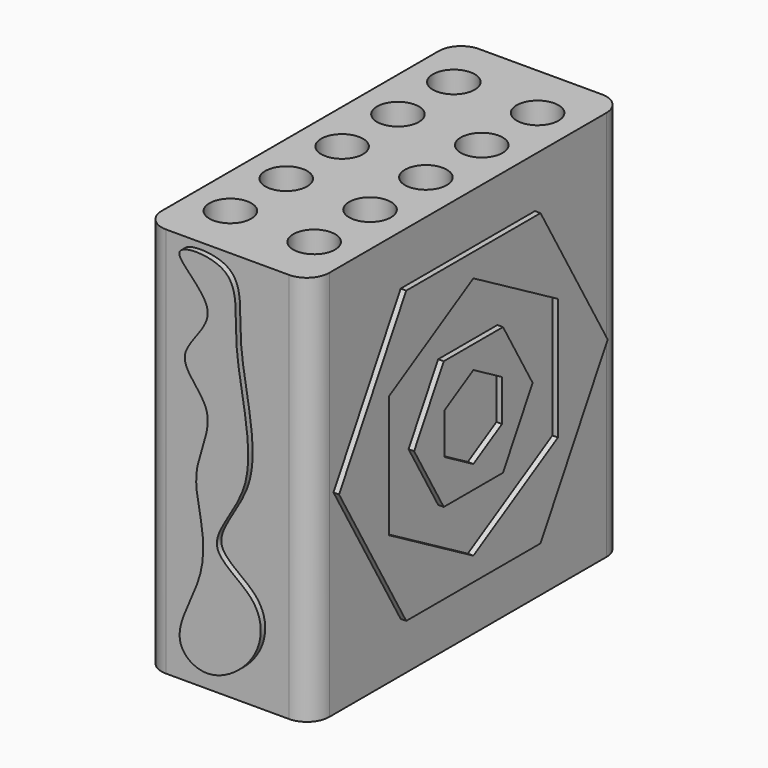
from build123d import *

# Parameters (mm, degrees)
F0_W      = 88.9
F0_H      = 88.9
F1_DEPTH  = 19.05
F2_R      = 4.7625
F3_DEPTH  = 82.55
F4_R      = 5.08
F6_DEPTH  = 1.27
F7_R      = 37.8350149357
F7_R_2    = 34.0428240735
F7_R_3    = 29.2742972445
F7_R_4    = 24.6223872017
F7_R_5    = 20.4338722206
F7_R_6    = 16.3206542749
F7_R_7    = 11.4710246767
F7_R_8    = 4.2947443434
F8_DEPTH  = 1.27
F10_DEPTH = 1.27
F11_W     = 27.94
F11_H     = 72.8966072202
F11_W_2   = 20.8626687527
F11_H_2   = 56.206472218
F11_W_3   = 12.5176021829
F11_H_3   = 41.7253263295
F11_W_4   = 6.1360821128
F11_H_4   = 30.6803882122
F12_DEPTH = 1.27
F14_DEPTH = 1.27


with BuildPart() as f1:
    # F0 (on Right) → F1 (new body, symmetric)
    with BuildSketch(Plane.YZ):
        Rectangle(F0_W, F0_H)
    extrude(amount=F1_DEPTH, both=True)

    # F2 (on face) → F3 (cut)
    with BuildSketch(Plane.XY.offset(44.45)):
        with Locations((-9.525, -31.75)):
            Circle(F2_R)
        with Locations((-9.525, 0)):
            Circle(F2_R)
        with Locations((-9.525, -15.875)):
            Circle(F2_R)
        with Locations((-9.525, 15.875)):
            Circle(F2_R)
        with Locations((-9.525, 31.75)):
            Circle(F2_R)
        with Locations((9.525, 0)):
            Circle(F2_R)
        with Locations((9.525, -31.75)):
            Circle(F2_R)
        with Locations((9.525, -15.875)):
            Circle(F2_R)
        with Locations((9.525, 15.875)):
            Circle(F2_R)
        with Locations((9.525, 31.75)):
            Circle(F2_R)
    extrude(amount=-F3_DEPTH, mode=Mode.SUBTRACT)

    # F4
    f4_edges = [f1.edges().sort_by_distance(p)[0] for p in [
        (19.05, -44.45, 0),
        (19.05, 44.45, 0),
        (-19.05, 44.45, 0),
        (-19.05, -44.45, 0),
    ]]
    fillet(f4_edges, radius=F4_R)

    # F5 (on face) → F6 (join)
    with BuildSketch(Plane.YZ.offset(19.05)):
        Polygon((-19.0844916684, -33.0553092062), (19.0844916684, -33.0553092062), (38.1689833367, 0), (19.0844916684, 33.0553092062), (-19.0844916684, 33.0553092062), (-38.1689833367, 0), align=None)
        Polygon((0, -27.7594144883), (-24.0403581411, -13.8797072442), (-24.0403581411, 13.8797072442), (0, 27.7594144883), (24.0403581411, 13.8797072442), (24.0403581411, -13.8797072442), align=None, mode=Mode.SUBTRACT)
        Polygon((-8.4196167213, -14.5832039416), (8.4196167213, -14.5832039416), (16.8392334426, 0), (8.4196167213, 14.5832039416), (-8.4196167213, 14.5832039416), (-16.8392334426, 0), align=None)
        Polygon((0, -9.4086802429), (-8.1481561065, -4.7043401215), (-8.1481561065, 4.7043401215), (0, 9.4086802429), (8.1481561065, 4.7043401215), (8.1481561065, -4.7043401215), align=None, mode=Mode.SUBTRACT)
    extrude(amount=F6_DEPTH)

    # F7 (on face) → F8 (join)
    with BuildSketch(Plane(origin=(-19.05, 0, 0), x_dir=(0, -1, 0), z_dir=(-1, 0, 0))):
        Circle(F7_R)
        with Locations((0, -0.6230861181)):
            Circle(F7_R_2, mode=Mode.SUBTRACT)
        Circle(F7_R_3)
        Circle(F7_R_4, mode=Mode.SUBTRACT)
        Circle(F7_R_5)
        Circle(F7_R_6, mode=Mode.SUBTRACT)
        Circle(F7_R_7)
        Circle(F7_R_8, mode=Mode.SUBTRACT)
    extrude(amount=F8_DEPTH)

    # F9 (on face) → F10 (join)
    with BuildSketch(Plane(origin=(-19.05, 0, 0), x_dir=(0, -1, 0), z_dir=(-1, 0, 0))):
        Polygon((-23.4398227185, 39.1481854022), (-36.2422010507, 41.6307673476), (-31.9909909163, 29.3022915103), align=None)
        Polygon((31.9909909163, 29.3022915103), (36.2422010507, 41.6307673476), (23.4398227185, 39.1481854022), align=None)
        Polygon((31.9909909163, -29.3022915103), (23.4398227185, -39.1481854022), (36.2422010507, -41.6307673476), align=None)
        Polygon((-31.9909909163, -29.3022915103), (-36.2422010507, -41.6307673476), (-23.4398227185, -39.1481854022), align=None)
    extrude(amount=F10_DEPTH)

    # F11 (on face) → F12 (join)
    with BuildSketch(Plane(origin=(0, 44.45, 0), x_dir=(-1, 0, 0), z_dir=(0, 1, 0))):
        Rectangle(F11_W, F11_H)
        Rectangle(F11_W_2, F11_H_2, mode=Mode.SUBTRACT)
        Rectangle(F11_W_3, F11_H_3)
        Rectangle(F11_W_4, F11_H_4, mode=Mode.SUBTRACT)
    extrude(amount=F12_DEPTH)

    # F13 (on face) → F14 (join)
    with BuildSketch(Plane.XZ.offset(44.45)):
        with BuildLine():
            add(Edge.make_bspline(
                [(-9.9404472858, 41.7253300548), (-10.4393687317, 39.8544595144), (2.3346966823, 32.0702597616), (-13.4633031993, 21.1841853724), (-0.3491542327, 12.6171329779), (-7.4059680461, -0.1327843033), (-4.8737832549, -9.7281138777), (-3.5972809771, -21.8644273007), (-13.0755227687, -35.9396479129), (-3.1443557011, -43.0219255628), (9.0691160086, -34.1679552684), (9.0984922379, -21.5225097323), (-6.5670666967, -15.0823173953), (9.9744444963, 0.1785511815), (1.0667515938, 26.0297424967), (4.6818241025, 43.5460924), (-9.4745389427, 43.4724070763), (-9.9404472858, 41.7253300548)],
                knots=[0, 0, 0, 0, 0.0634366723, 0.1287234087, 0.1893983636, 0.2553571738, 0.3139356417, 0.3794236714, 0.4513807089, 0.5038650388, 0.5713396846, 0.6323890632, 0.696211657, 0.7708282411, 0.8687761518, 0.9407608651, 1, 1, 1, 1], degree=3))
        make_face()
    extrude(amount=F14_DEPTH)


solid = f1.part
